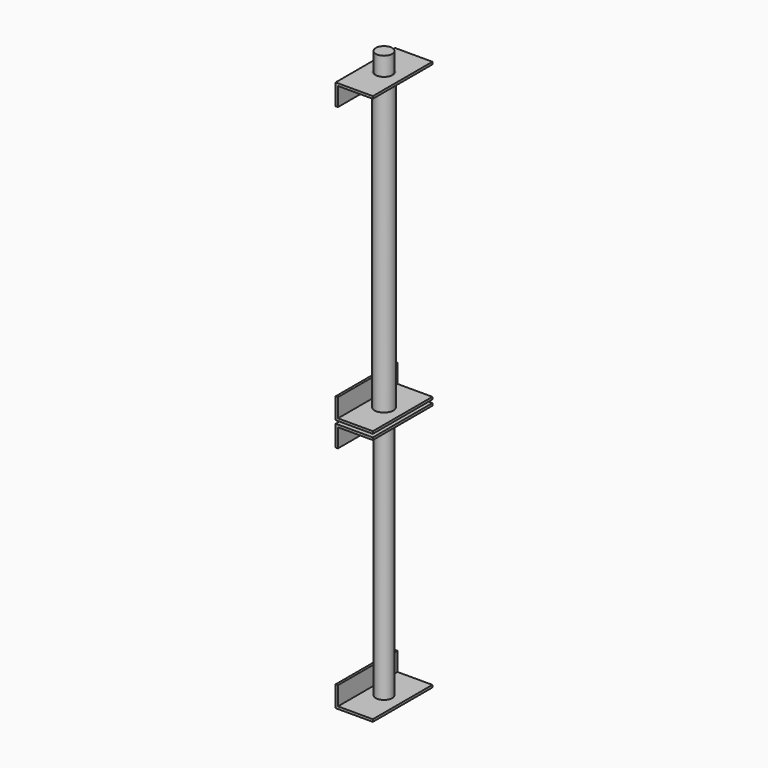
from build123d import *

# Parameters (mm, degrees)
F0_W          = 100
F0_H          = 25
F1_DEPTH      = 3.2
F2_W          = 46.8
F2_H          = 100
F2_W_2        = 3.2
F3_DEPTH      = 3.2
F4_R          = 12.5
F5_DEPTH      = 400
F7_T          = -1.5
F8_R          = 11
F9_DEPTH      = 25
F9_DEPTH_BACK = 740
F12_W         = 50
F12_H         = 100
F12_R         = 11
F13_DEPTH     = 3.2
F14_W         = 3.2
F14_H         = 100
F15_DEPTH     = 25


with BuildPart() as f1:
    # F0 (on Right) → F1 (new body)
    with BuildSketch(Plane.YZ):
        with Locations((50, 12.5)):
            Rectangle(F0_W, F0_H)
    extrude(amount=F1_DEPTH)

    # F2 (on face) → F3 (join)
    with BuildSketch(Plane.XY.offset(25)):
        with Locations((26.6, 50)):
            Rectangle(F2_W, F2_H)
        with Locations((1.6, 50)):
            Rectangle(F2_W_2, F2_H)
    extrude(amount=F3_DEPTH)


with BuildPart() as f5:
    # F4 (on face) → F5 (new body)
    with BuildSketch(Plane.XY.offset(28.2)):
        with Locations((25, 50)):
            Circle(F4_R)
    extrude(amount=-F5_DEPTH)


with BuildPart() as f1_1:
    add(f1.part)

    # F6: cut F5
    add(f5.part, mode=Mode.SUBTRACT)


with BuildPart() as f5_1:
    add(f5.part)

    # F7
    f7_openings = [f5_1.faces().sort_by_distance(p)[0] for p in [
        (25, 50, 28.2),
        (25, 50, -371.8),
    ]]
    offset(amount=F7_T, openings=f7_openings)


with BuildPart() as f9:
    # F8 (on face) → F9 (new body, two sides)
    with BuildSketch(Plane.XY.offset(28.2)) as f9_sk:
        with Locations((25, 50)):
            Circle(F8_R)
    extrude(amount=F9_DEPTH)
    extrude(f9_sk.sketch, amount=-F9_DEPTH_BACK)


with BuildPart() as f11_1:
    # F11: instance of F1
    add(f1_1.part.mirror(Plane.XY.offset(-171.5)))


with BuildPart() as f13:
    # F12 (on face) → F13 (new body)
    with BuildSketch(Plane(origin=(0, 0, -711.8), x_dir=(1, 0, 0), z_dir=(0, 0, -1))):
        with Locations((25, -50)):
            Rectangle(F12_W, F12_H)
        with Locations((25, -50)):
            Circle(F12_R, mode=Mode.SUBTRACT)
    extrude(amount=-F13_DEPTH)

    # F14 (on face) → F15 (join)
    with BuildSketch(Plane.XY.offset(-708.6)):
        with Locations((1.6, 50)):
            Rectangle(F14_W, F14_H)
    extrude(amount=F15_DEPTH)


with BuildPart() as f17_1:
    # F17: instance of F13
    add(f13.part.mirror(Plane(origin=(26.7414490953, 50, -543.6), x_dir=(1, 0, 0), z_dir=(0, 0, 1))))


solid = Compound([f1_1.part, f5_1.part, f9.part, f11_1.part, f13.part, f17_1.part])
